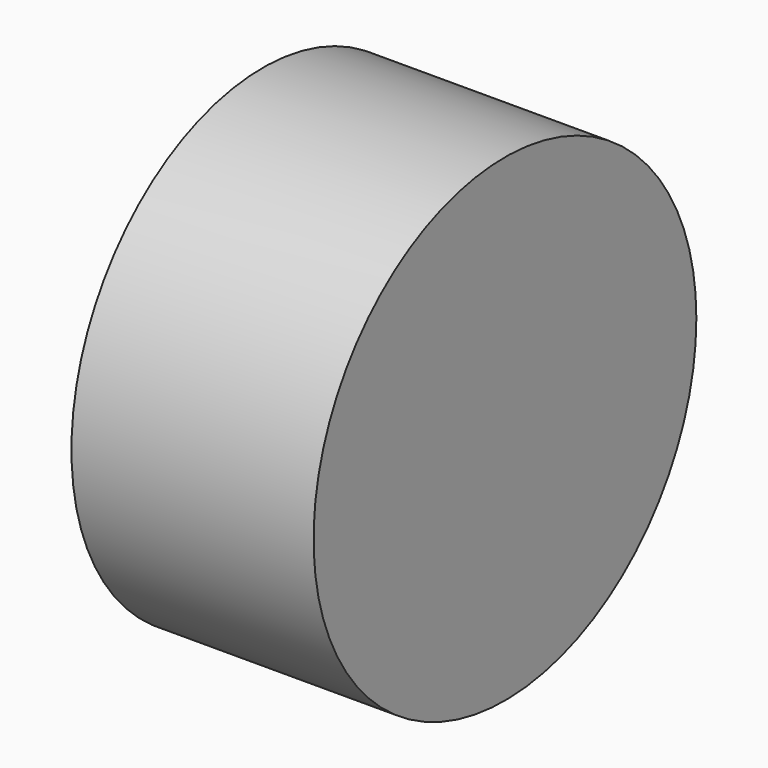
from build123d import *

# Parameters (mm, degrees)
F0_R     = 75.035261
F1_DEPTH = 75.946


with BuildPart() as f1:
    # F0 (on Right) → F1 (new body)
    with BuildSketch(Plane.YZ):
        Circle(F0_R)
        Circle(F0_R)
    extrude(amount=F1_DEPTH)


solid = f1.part
